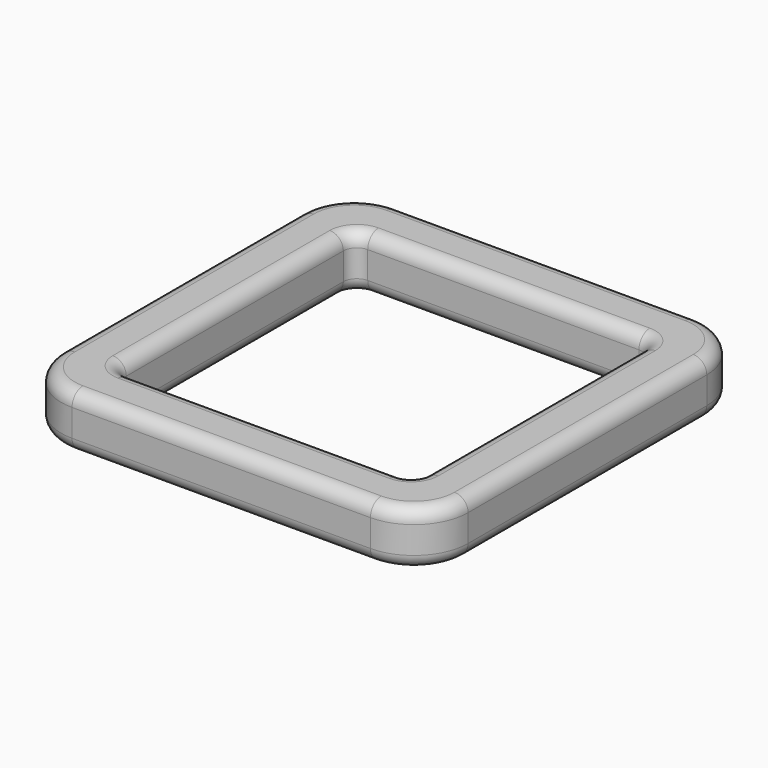
from build123d import *

# Parameters (mm, degrees)
F0_W     = 30
F0_H     = 30
F1_DEPTH = 4
F2_T     = -4
F3_R     = 1
F4_R     = 4
F5_R     = 1


with BuildPart() as f1:
    # F0 (on Top) → F1 (new body)
    with BuildSketch(Plane.XY):
        Rectangle(F0_W, F0_H)
    extrude(amount=F1_DEPTH)

    # F2
    f2_openings = [f1.faces().sort_by_distance(p)[0] for p in [
        (0, 0, 4),
        (0, 0, 0),
    ]]
    offset(amount=F2_T, openings=f2_openings)

    # F3
    f3_edges = [f1.edges().sort_by_distance(p)[0] for p in [
        (-11, 11, 2),
        (11, 11, 2),
        (-11, -11, 2),
        (11, -11, 2),
    ]]
    fillet(f3_edges, radius=F3_R)

    # F4
    f4_edges = [f1.edges().sort_by_distance(p)[0] for p in [
        (-15, 15, 2),
        (15, 15, 2),
        (-15, -15, 2),
        (15, -15, 2),
    ]]
    fillet(f4_edges, radius=F4_R)

    # F5
    f5_edges = [f1.edges().sort_by_distance(p)[0] for p in [
        (11, 0, 4),
        (15, 0, 4),
        (13.828427, 13.828427, 0),
        (10.707107, 10.707107, 0),
    ]]
    fillet(f5_edges, radius=F5_R)


solid = f1.part
